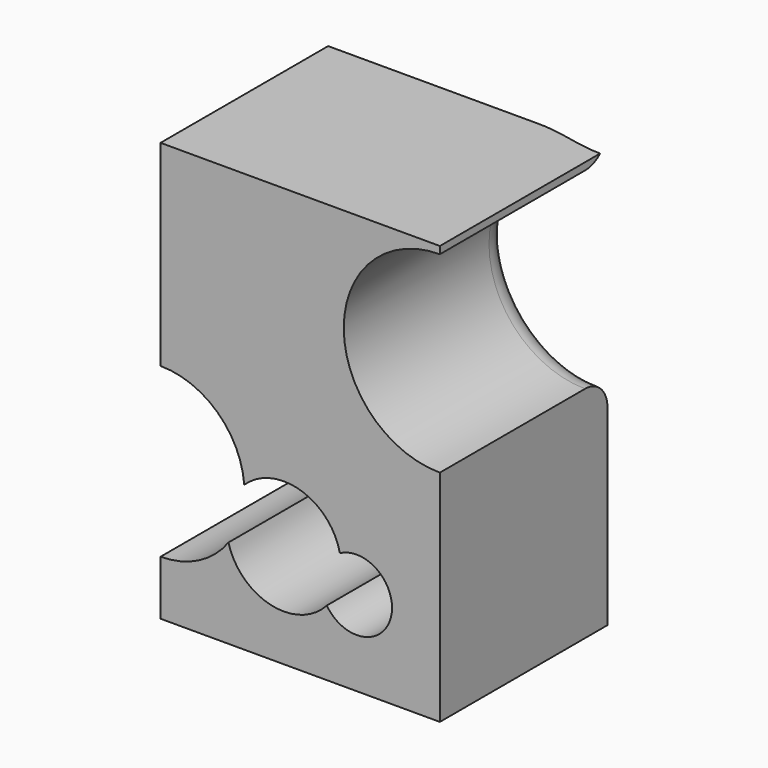
from build123d import *

# Parameters (mm, degrees)
F0_W     = 50.8
F0_H     = 38.1
F1_DEPTH = 76.2
F2_R     = 17.4803225392
F3_DEPTH = 38.101
F4_R     = 5.08


with BuildPart() as f1:
    # F0 (on Top) → F1 (new body)
    with BuildSketch(Plane.XY):
        with Locations((-25.4, -6.35)):
            Rectangle(F0_W, F0_H)
    extrude(amount=F1_DEPTH)

    # F2 (on face) → F3 (cut, through all)
    with BuildSketch(Plane.XZ.offset(25.4)):
        with BuildLine():
            ThreePointArc((-38.4466977771, 16.2261378818), (-36.2780752576, 20.4825429519), (-35.530821321, 25.2007544041))
            ThreePointArc((-35.530821321, 25.2007544041), (-35.5426781239, 25.802374467), (-35.5782301185, 26.4030601914))
            ThreePointArc((-35.5782301185, 26.4030601914), (-38.3981973117, 21.7051818884), (-38.4466977771, 16.2261378818))
        make_face()
        with BuildLine():
            ThreePointArc((-35.5782301185, 26.4030601914), (-35.5426781239, 25.802374467), (-35.530821321, 25.2007544041))
            ThreePointArc((-35.530821321, 25.2007544041), (-36.2780752576, 20.4825429519), (-38.4466977771, 16.2261378818))
            ThreePointArc((-38.4466977771, 16.2261378818), (-30.7853938644, 8.7355753596), (-20.5657055583, 11.9545931397))
            ThreePointArc((-20.5657055583, 11.9545931397), (-21.3730987717, 17.05320374), (-18.1779448175, 21.1076710371))
            ThreePointArc((-18.1779448175, 21.1076710371), (-25.3272484905, 28.8513160491), (-35.5782301185, 26.4030601914))
        make_face()
        with BuildLine():
            ThreePointArc((-38.4466977771, 16.2261378818), (-38.3981973117, 21.7051818884), (-35.5782301185, 26.4030601914))
            ThreePointArc((-35.5782301185, 26.4030601914), (-65.4965501841, 29.3431245248), (-38.4466977771, 16.2261378818))
        make_face()
        with BuildLine():
            ThreePointArc((-8.6975224724, 15.4270771891), (-11.8284701462, 20.9530964233), (-18.1779448175, 21.1076710371))
            ThreePointArc((-18.1779448175, 21.1076710371), (-17.9969955306, 19.9986578535), (-17.9364446703, 18.8766121864))
            ThreePointArc((-17.9364446703, 18.8766121864), (-18.6158988239, 15.1743371933), (-20.5657055583, 11.9545931397))
            ThreePointArc((-20.5657055583, 11.9545931397), (-13.3305831879, 9.2441993148), (-8.6975224724, 15.4270771891))
        make_face()
        with BuildLine():
            ThreePointArc((-17.9364446703, 18.8766121864), (-17.9969955306, 19.9986578535), (-18.1779448175, 21.1076710371))
            ThreePointArc((-18.1779448175, 21.1076710371), (-21.3730987717, 17.05320374), (-20.5657055583, 11.9545931397))
            ThreePointArc((-20.5657055583, 11.9545931397), (-18.6158988239, 15.1743371933), (-17.9364446703, 18.8766121864))
        make_face()
        with Locations((0, 57.3963969946)):
            Circle(F2_R)
    extrude(amount=-F3_DEPTH, mode=Mode.SUBTRACT)

    # F4
    f4_edges = [f1.edges().sort_by_distance(p)[0] for p in [
        (-17.480323, 12.7, 57.396397),
    ]]
    fillet(f4_edges, radius=F4_R)


solid = f1.part
